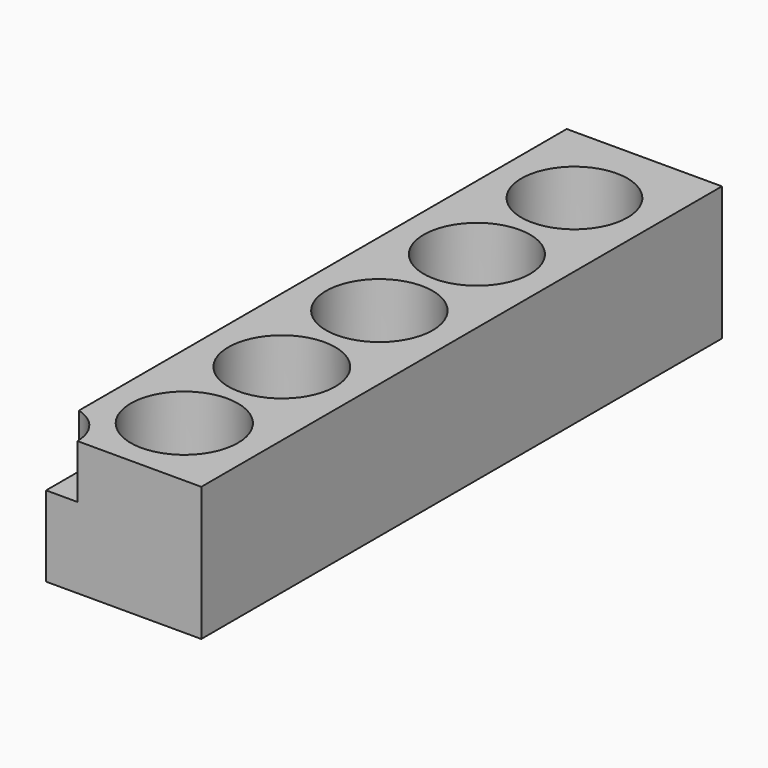
from build123d import *

# Parameters (mm, degrees)
F0_W     = 11.58612
F0_H     = 48.573878
F0_R     = 4
F0_R_2   = 3.99
F0_R_3   = 3.98
F0_R_4   = 3.97
F0_R_5   = 3.96
F1_DEPTH = 10
F2_R     = 3.175
F3_DEPTH = 4


with BuildPart() as f1:
    # F0 (on Top) → F1 (new body)
    with BuildSketch(Plane.XY):
        with Locations((5.79306, 24.286939)):
            Rectangle(F0_W, F0_H)
        with Locations((5.79306, 5.655282)):
            Circle(F0_R, mode=Mode.SUBTRACT)
        with Locations((5.79306, 14.755282)):
            Circle(F0_R_2, mode=Mode.SUBTRACT)
        with Locations((5.79306, 23.855282)):
            Circle(F0_R_3, mode=Mode.SUBTRACT)
        with Locations((5.79306, 32.955282)):
            Circle(F0_R_4, mode=Mode.SUBTRACT)
        with Locations((5.79306, 42.055282)):
            Circle(F0_R_5, mode=Mode.SUBTRACT)
    extrude(amount=F1_DEPTH)

    # F2 (on face) → F3 (cut)
    with BuildSketch(Plane.XY.offset(10)):
        with Locations((-0.836659, 0)):
            Circle(F2_R)
    extrude(amount=-F3_DEPTH, mode=Mode.SUBTRACT)


solid = f1.part
